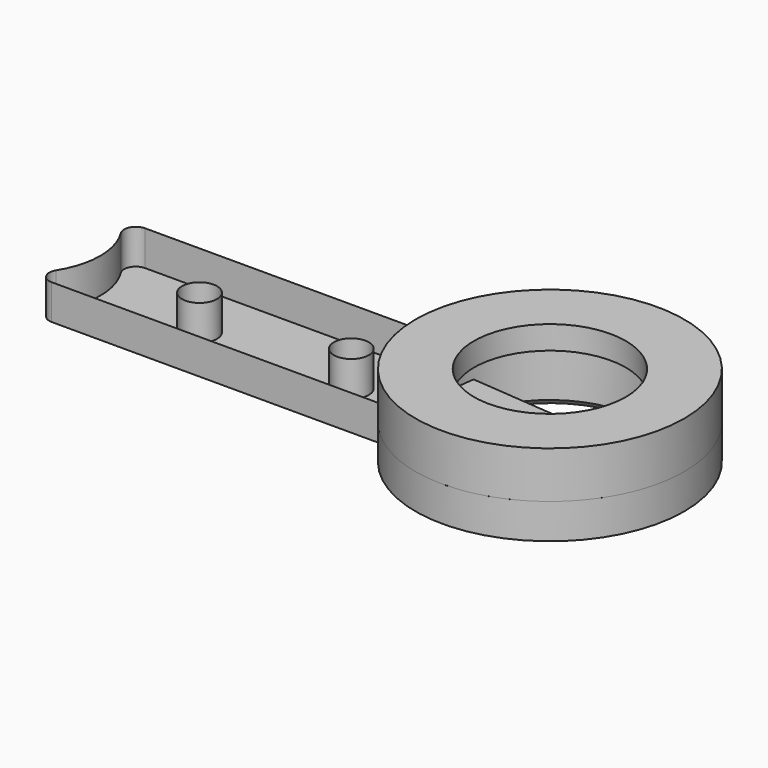
from build123d import *

# Parameters (mm, degrees)
SKETCH_R      = 8
SKETCH_R_2    = 1.5
PAD_DEPTH     = 3
SKETCH001_R   = 11.5
SKETCH001_R_2 = 8
PAD001_DEPTH  = 4
SKETCH002_R   = 8
PAD002_DEPTH  = 2
SKETCH003_R   = 6.5
POCKET_DEPTH  = 7.001
FILLET_R      = 1
CHAMFER_SIZE  = 0.5


with BuildPart() as part:
    # Sketch → Pad (new body)
    with BuildSketch(Plane.XY):
        with BuildLine():
            Line((4.153312, 5), (34.643842, 5))
            ThreePointArc((34.643842, -5), (56.5, 0), (34.643842, 5))
            Line((34.643842, -5), (4.153312, -5))
            ThreePointArc((4.153312, -5), (6.5, 0), (4.153312, 5))
        make_face()
        with Locations((45, 0)):
            Circle(SKETCH_R, mode=Mode.SUBTRACT)
        with Locations((15, 0)):
            Circle(SKETCH_R_2, mode=Mode.SUBTRACT)
        with Locations((28, 0)):
            Circle(SKETCH_R_2, mode=Mode.SUBTRACT)
    extrude(amount=PAD_DEPTH)

    # Sketch001 (on Face9 of Pad) → Pad001 (join)
    with BuildSketch(Plane.XY.offset(3)):
        with Locations((45, 0)):
            Circle(SKETCH001_R)
        with Locations((45, 0)):
            Circle(SKETCH001_R_2, mode=Mode.SUBTRACT)
    extrude(amount=PAD001_DEPTH)

    # Sketch002 (on Face11 of Pad001) → Pad002 (join)
    with BuildSketch(Plane.XY.offset(7)):
        with Locations((45, 0)):
            Circle(SKETCH002_R)
    extrude(amount=-PAD002_DEPTH)

    # Sketch003 (on Face13 of Pad002) → Pocket (cut, through all)
    with BuildSketch(Plane.XY.offset(7)):
        with Locations((45, 0)):
            Circle(SKETCH003_R)
    extrude(amount=-POCKET_DEPTH, mode=Mode.SUBTRACT)

    # Fillet
    fillet_edges = [part.edges().sort_by_distance(p)[0] for p in [
        (4.153312, 5, 1.5),
        (4.153312, -5, 1.5),
    ]]
    fillet(fillet_edges, radius=FILLET_R)

    # Chamfer
    chamfer_edges = [part.edges().sort_by_distance(p)[0] for p in [
        (37, 0, 0),
    ]]
    chamfer(chamfer_edges, length=CHAMFER_SIZE)


solid = part.part
